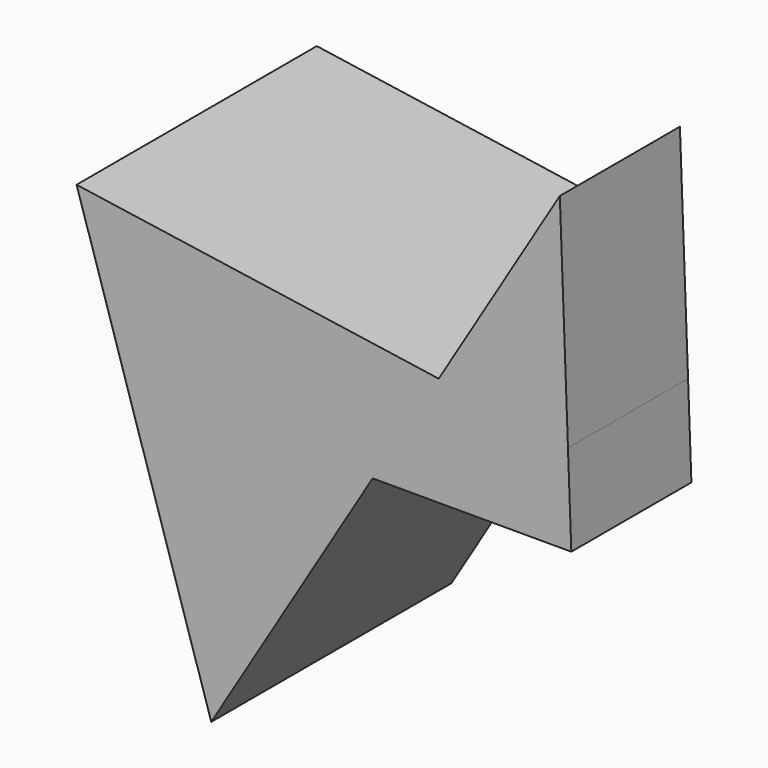
from build123d import *

# Parameters (mm, degrees)
F1_DEPTH      = 25.4
F1_DEPTH_BACK = 25.4
F2_DEPTH      = 25.4


with BuildPart() as f1:
    # F0 (on Front) → F1 (new body, two sides)
    with BuildSketch(Plane.XZ) as f1_sk:
        Polygon((-3.309416, -45.163799), (24.005216, 0), (35.183231, 18.48246), (-26.085986, 27.448686), align=None)
    extrude(amount=F1_DEPTH)
    extrude(f1_sk.sketch, amount=-F1_DEPTH_BACK)

    # F0 (on Front) → F2 (join)
    with BuildSketch(Plane.XZ):
        Polygon((35.183231, 18.48246), (24.005216, 0), (31.73146, 0), (53.924017, 0), (57.622772, 0), (57.054677, 15.281761), align=None)
        Polygon((-3.309416, -45.163799), (24.005216, 0), (35.183231, 18.48246), (-26.085986, 27.448686), align=None)
        Polygon((55.676058, 52.36664), (35.183231, 18.48246), (57.054677, 15.281761), align=None)
    extrude(amount=F2_DEPTH)


solid = f1.part
